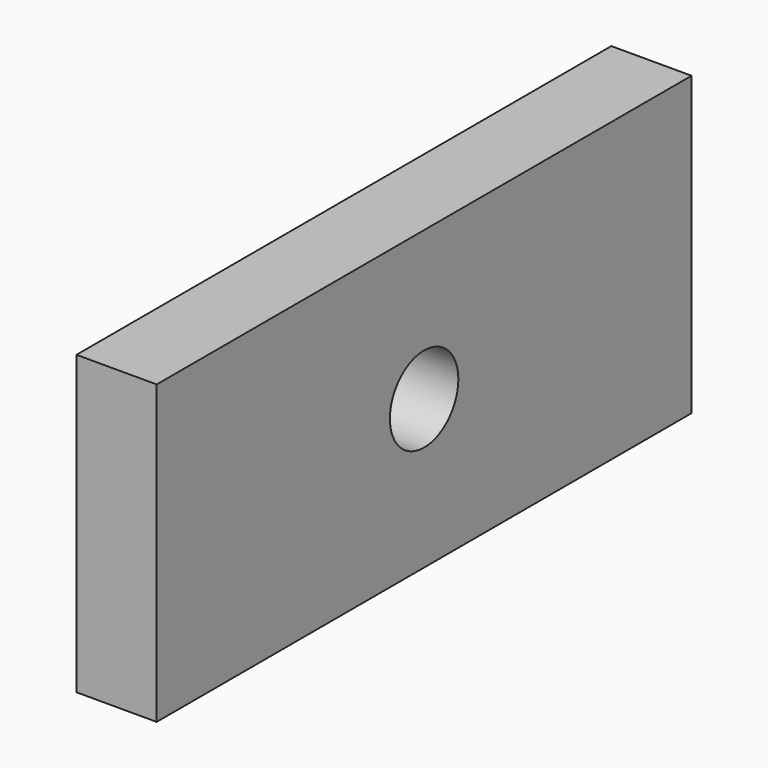
from build123d import *

# Parameters (mm, degrees)
F0_W     = 25
F0_H     = 11.11
F0_R     = 1.6
F1_DEPTH = 1.5


with BuildPart() as f1:
    # F0 (on Right) → F1 (new body, symmetric)
    with BuildSketch(Plane.YZ):
        with Locations((0, 0.005)):
            Rectangle(F0_W, F0_H)
        Circle(F0_R, mode=Mode.SUBTRACT)
    extrude(amount=F1_DEPTH, both=True)


solid = f1.part
